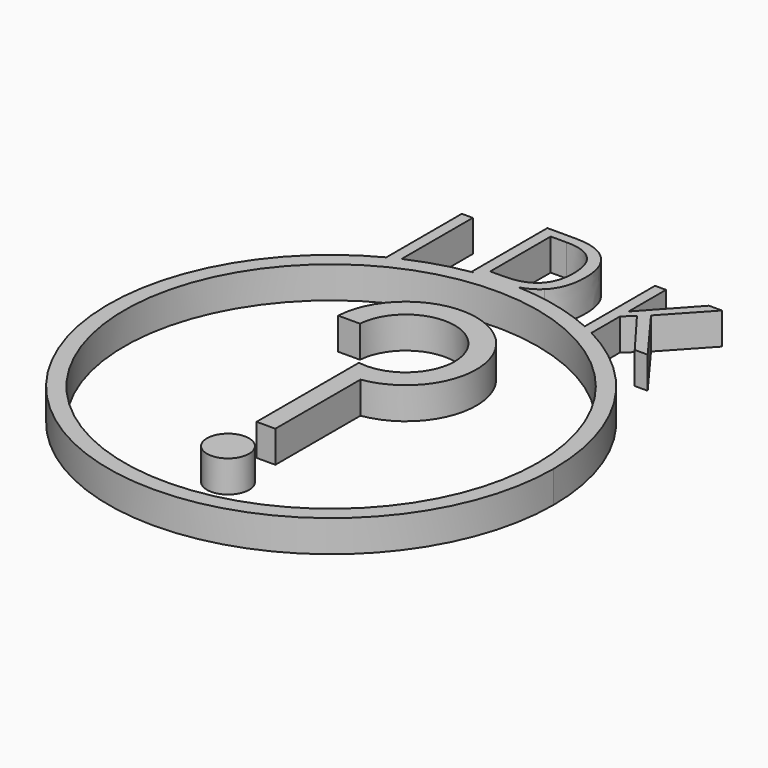
from build123d import *

# Parameters (mm, degrees)
F0_R     = 8.255
F1_DEPTH = 1.27
F2_DEPTH = 1.27
F0_R_2   = 0.8398718831


with BuildPart() as f1:
    # F0 (on Top) → F1 (new body)
    with BuildSketch(Plane.XY):
        with BuildLine():
            ThreePointArc((-4.1044425987, 7.8857879095), (-4.6121364517, -7.6000195626), (8.89, 0))
            ThreePointArc((8.89, 0), (7.5919830199, 4.625353373), (4.0769755174, 7.9000234576))
            Line((4.0769755174, 7.9000234576), (4.0769755174, 7.8430591622))
            Line((4.0769755174, 7.8430591622), (3.6379325486, 7.8430591622))
            Line((3.6379325486, 7.8430591622), (3.6379325486, 8.1115686998))
            ThreePointArc((3.6379325486, 8.1115686998), (2.0409119952, 8.6525590566), (0.3704705258, 8.8822773876))
            add(Edge.make_bspline(
                [(0.3704705258, 8.8822773876), (0.0407352156, 8.7891189852), (-0.3728971354, 8.7891189852)],
                knots=[0.5661169485, 0.5661169485, 0.5661169485, 1, 1, 1], degree=2))
            Line((-0.3728971354, 8.7891189852), (-1.335472749, 8.7891189852))
            ThreePointArc((-1.335472749, 8.7891189852), (-2.5241196909, 8.5241374805), (-3.6653996299, 8.0991941298))
            Line((-3.6653996299, 8.0991941298), (-3.6653996299, 7.8758193651))
            Line((-3.6653996299, 7.8758193651), (-4.1044425987, 7.8758193651))
            Line((-4.1044425987, 7.8758193651), (-4.1044425987, 7.8857879095))
        make_face()
        Circle(F0_R, mode=Mode.SUBTRACT)
        with BuildLine():
            Line((4.0769755174, 7.8430591622), (4.0769755174, 7.9000234576))
            ThreePointArc((4.0769755174, 7.9000234576), (3.85890392, 8.0088051878), (3.6379325486, 8.1115686998))
            Line((3.6379325486, 8.1115686998), (3.6379325486, 7.8430591622))
            Line((3.6379325486, 7.8430591622), (4.0769755174, 7.8430591622))
        make_face()
        with BuildLine():
            ThreePointArc((3.6379325486, 8.1115686998), (3.85890392, 8.0088051878), (4.0769755174, 7.9000234576))
            Line((4.0769755174, 7.9000234576), (4.0769755174, 9.3238990059))
            Line((4.0769755174, 9.3238990059), (4.4730236944, 9.6752987455))
            Line((4.4730236944, 9.6752987455), (5.8496838507, 7.8430591622))
            Line((5.8496838507, 7.8430591622), (6.3664481736, 7.8430591622))
            Line((6.3664481736, 7.8430591622), (4.7905236944, 9.9795695789))
            Line((4.7905236944, 9.9795695789), (6.3093973924, 11.6208130684))
            Line((6.3093973924, 11.6208130684), (5.7901526007, 11.6208130684))
            Line((5.7901526007, 11.6208130684), (4.0769755174, 9.7472323393))
            Line((4.0769755174, 9.7472323393), (4.0769755174, 11.6208130684))
            Line((4.0769755174, 11.6208130684), (3.6379325486, 11.6208130684))
            Line((3.6379325486, 11.6208130684), (3.6379325486, 8.1115686998))
        make_face()
        with BuildLine():
            Line((-4.1044425987, 11.6535732713), (-4.1044425987, 7.8857879095))
            ThreePointArc((-4.1044425987, 7.8857879095), (-3.88638619, 7.9955051361), (-3.6653996299, 8.0991941298))
            Line((-3.6653996299, 8.0991941298), (-3.6653996299, 11.6535732713))
            Line((-3.6653996299, 11.6535732713), (-4.1044425987, 11.6535732713))
        make_face()
        with BuildLine():
            ThreePointArc((-3.6653996299, 8.0991941298), (-3.88638619, 7.9955051361), (-4.1044425987, 7.8857879095))
            Line((-4.1044425987, 7.8857879095), (-4.1044425987, 7.8758193651))
            Line((-4.1044425987, 7.8758193651), (-3.6653996299, 7.8758193651))
            Line((-3.6653996299, 7.8758193651), (-3.6653996299, 8.0991941298))
        make_face()
        with BuildLine():
            add(Edge.make_bspline(
                [(0.3704705258, 8.8822773876), (0.0407352156, 8.7891189852), (-0.3728971354, 8.7891189852)],
                knots=[0.5661169485, 0.5661169485, 0.5661169485, 1, 1, 1], degree=2))
            ThreePointArc((0.3704705258, 8.8822773876), (-0.4847442054, 8.876774361), (-1.335472749, 8.7891189852))
            Line((-1.335472749, 8.7891189852), (-0.3728971354, 8.7891189852))
        make_face()
        with BuildLine():
            ThreePointArc((-1.335472749, 8.7891189852), (-0.4847442054, 8.876774361), (0.3704705258, 8.8822773876))
            add(Edge.make_bspline(
                [(1.0880989583, 9.2839725009), (0.8006987799, 9.0038275386), (0.3704705258, 8.8822773876)],
                knots=[0, 0, 0, 0.5661169485, 0.5661169485, 0.5661169485], degree=2))
            add(Edge.make_bspline(
                [(1.5957682292, 10.7139627352), (1.5957682292, 9.7788260165), (1.0880989583, 9.2839725009)],
                knots=[0, 0, 0, 1, 1, 1], degree=2))
            add(Edge.make_bspline(
                [(1.1075292969, 12.0786339592), (1.5957682292, 11.5903950269), (1.5957682292, 10.7139627352)],
                knots=[0, 0, 0, 1, 1, 1], degree=2))
            add(Edge.make_bspline(
                [(-0.2621028646, 12.5668728915), (0.6192903646, 12.5668728915), (1.1075292969, 12.0786339592)],
                knots=[0, 0, 0, 1, 1, 1], degree=2))
            Line((-0.2621028646, 12.5668728915), (-1.4196549479, 12.5668728915))
            Line((-1.4196549479, 12.5668728915), (-1.4196549479, 8.7891189852))
            Line((-1.4196549479, 8.7891189852), (-1.335472749, 8.7891189852))
        make_face()
        with BuildLine():
            add(Edge.make_bspline(
                [(1.13109375, 10.6982530998), (1.13109375, 11.4374327873), (0.7602636719, 11.8119835686)],
                knots=[0, 0, 0, 1, 1, 1], degree=2))
            add(Edge.make_bspline(
                [(0.7354589844, 9.5551704175), (1.13109375, 9.9417101311), (1.13109375, 10.6982530998)],
                knots=[0, 0, 0, 1, 1, 1], degree=2))
            add(Edge.make_bspline(
                [(-0.4456575521, 9.168630704), (0.3398242188, 9.168630704), (0.7354589844, 9.5551704175)],
                knots=[0, 0, 0, 1, 1, 1], degree=2))
            Line((-0.4456575521, 9.168630704), (-0.9806119792, 9.168630704))
            Line((-0.9806119792, 9.168630704), (-0.9806119792, 12.1865343498))
            Line((-0.9806119792, 12.1865343498), (-0.3423046875, 12.1865343498))
            add(Edge.make_bspline(
                [(0.7602636719, 11.8119835686), (0.3894335938, 12.1865343498), (-0.3423046875, 12.1865343498)],
                knots=[0, 0, 0, 1, 1, 1], degree=2))
        make_face(mode=Mode.SUBTRACT)
    extrude(amount=F1_DEPTH)


with BuildPart() as f2:
    # F0 (on Top) → F2 (new body)
    with BuildSketch(Plane.XY):
        with BuildLine():
            Line((-0.3262611572, 1.7971666738), (-0.3262611572, -3.3127204515))
            Line((-0.3262611572, -3.3127204515), (0.4224519944, -3.3127204515))
            Line((0.4224519944, -3.3127204515), (0.4224519944, 0.9349852992))
            ThreePointArc((0.4224519944, 0.9349852992), (1.8953202192, 5.8159838013), (-2.8181459482, 3.8726043033))
            Line((-2.8181459482, 3.8726043033), (-1.9495125412, 3.8771755831))
            ThreePointArc((-1.9495125412, 3.8771755831), (1.2826365802, 5.2011738985), (0.4224519944, 1.8159350649))
            ThreePointArc((0.4224519944, 1.8159350649), (0.0490023715, 1.7703704856), (-0.3262611572, 1.7971666738))
        make_face()
    extrude(amount=F2_DEPTH)


with BuildPart() as f2b:
    # F0 (on Top) → F2, piece 2 (new body)
    with BuildSketch(Plane.XY):
        with Locations((0, -5.1470682956)):
            Circle(F0_R_2)
    extrude(amount=F2_DEPTH)


solid = Compound([f1.part, f2.part, f2b.part])
